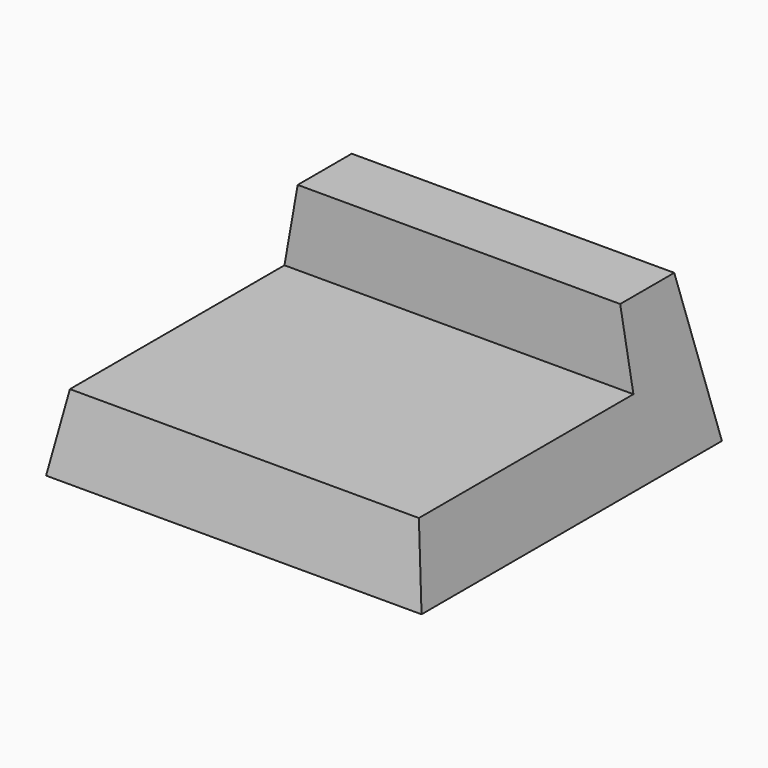
from build123d import *

# Parameters (mm, degrees)
F0_W     = 50
F0_H     = 50
F1_DEPTH = 20
F1_TAPER = 10
F4_DEPTH = 2.5
F5_W     = 42.9469207717
F5_H     = 33.9469207717
F6_DEPTH = 10


with BuildPart() as f1:
    # F0 (on Top) → F1 (new body)
    with BuildSketch(Plane.XY):
        Rectangle(F0_W, F0_H)
    extrude(amount=F1_DEPTH, taper=F1_TAPER)

    # F3 (on face) → F4 (cut)
    with BuildSketch(Plane(origin=(0, 24.2461577598, 4.2752517916), x_dir=(-1, 0, 0), z_dir=(0, 0.984807753, 0.1736481777))):
        with BuildLine():
            ThreePointArc((-62.6127916525, 12.0467824013), (-65.1076142535, 12.9570129346), (-67.6967318406, 13.5478847947))
            Line((-67.6967318406, 13.5478847947), (-67.6967318406, 1.7008224913))
            Line((-67.6967318406, 1.7008224913), (-64.9974017565, 0.6510827954))
            Line((-64.9974017565, 0.6510827954), (-64.9974017565, 10.8966148214))
            ThreePointArc((-64.9974017565, 10.8966148214), (-64.4272854823, 11.4667310956), (-63.8571692081, 10.8966148214))
            Line((-63.8571692081, 10.8966148214), (-63.8571692081, 6.5746134929))
            ThreePointArc((-63.8571692081, 6.5746134929), (-63.1556576777, 6.2062071738), (-62.36370085, 6.1807901262))
            ThreePointArc((-62.36370085, 6.1807901262), (-61.4973256009, 6.5898476466), (-60.9304969783, 7.3622720376))
            ThreePointArc((-60.9304969783, 7.3622720376), (-60.8139105128, 8.6329221267), (-60.9304969783, 9.9035722157))
            ThreePointArc((-60.9304969783, 9.9035722157), (-61.4992901353, 11.1889594143), (-62.6127916525, 12.0467824013))
        make_face()
        with BuildLine():
            Line((-59.852306272, 4.1264343026), (-64.3468709521, 2.5074238792))
            Line((-64.3468709521, 2.5074238792), (-64.3468709521, 0.8903192669))
            Line((-64.3468709521, 0.8903192669), (-59.1967386775, 2.745475089))
            ThreePointArc((-59.1967386775, 2.745475089), (-58.3600263338, 3.0909475212), (-57.5693056666, 3.5316283287))
            ThreePointArc((-57.5693056666, 3.5316283287), (-57.2106825124, 3.8266438133), (-57.1279449174, 4.2835893169))
            ThreePointArc((-57.1279449174, 4.2835893169), (-57.2731405563, 4.626683197), (-57.5693056666, 4.8526951689))
            ThreePointArc((-57.5693056666, 4.8526951689), (-59.1391575222, 5.4515460975), (-60.8064195051, 5.6596200345))
            ThreePointArc((-60.8064195051, 5.6596200345), (-62.3430133295, 5.6105588901), (-63.8571692081, 5.3443643137))
            Line((-63.8571692081, 5.3443643137), (-64.3733816954, 5.1584167399))
            Line((-64.3733816954, 5.1584167399), (-64.3733816954, 3.567821243))
            Line((-64.3733816954, 3.567821243), (-61.5377031577, 4.5892756967))
            ThreePointArc((-61.5377031577, 4.5892756967), (-61.4484140803, 4.623308608), (-61.3579327635, 4.6540317215))
            ThreePointArc((-61.3579327635, 4.6540317215), (-60.7215197269, 4.7724043893), (-60.0756078839, 4.7296079809))
            ThreePointArc((-60.0756078839, 4.7296079809), (-59.8276638338, 4.6512158498), (-59.6342471347, 4.4774011246))
            ThreePointArc((-59.6342471347, 4.4774011246), (-59.607836679, 4.389638385), (-59.6342471347, 4.3018756454))
            ThreePointArc((-59.6342471347, 4.3018756454), (-59.7293419591, 4.1968352348), (-59.852306272, 4.1264343026))
        make_face()
        with BuildLine():
            Line((-61.5377031577, 4.5892756967), (-61.3579327635, 4.6540317215))
            ThreePointArc((-61.3579327635, 4.6540317215), (-61.4484140803, 4.623308608), (-61.5377031577, 4.5892756967))
        make_face()
        with BuildLine():
            Line((-71.3693953118, 3.7232309117), (-68.2338687675, 4.8526951689))
            Line((-68.2338687675, 4.8526951689), (-68.2338687675, 6.3986412263))
            Line((-68.2338687675, 6.3986412263), (-72.8589746057, 4.7326078963))
            ThreePointArc((-72.8589746057, 4.7326078963), (-73.3660543121, 4.4190102256), (-73.7959157464, 4.0058607672))
            ThreePointArc((-73.7959157464, 4.0058607672), (-73.8489158308, 3.7221286407), (-73.7959157464, 3.4383965142))
            ThreePointArc((-73.7959157464, 3.4383965142), (-73.5719055484, 3.0819711924), (-73.2075114709, 2.8711714412))
            ThreePointArc((-73.2075114709, 2.8711714412), (-72.698935386, 2.6276316569), (-72.151396822, 2.4928622925))
            ThreePointArc((-72.151396822, 2.4928622925), (-71.0199458053, 2.2564276603), (-69.8657767964, 2.1933670766))
            ThreePointArc((-69.8657767964, 2.1933670766), (-69.0466795364, 2.2155081429), (-68.2338687675, 2.3191865022))
            Line((-68.2338687675, 2.3191865022), (-68.2338687675, 3.7681726435))
            ThreePointArc((-68.2338687675, 3.7681726435), (-68.7127832674, 3.5843780991), (-69.2045442964, 3.4383965142))
            ThreePointArc((-69.2045442964, 3.4383965142), (-70.2705361783, 3.1526989385), (-71.3693953118, 3.2550239211))
            ThreePointArc((-71.3693953118, 3.2550239211), (-71.4727799338, 3.4891274164), (-71.3693953118, 3.7232309117))
        make_face()
        with BuildLine():
            Line((-8.8550038247, 8.9253647507), (-18.3714963496, 8.9253647507))
            Line((-18.3714963496, 8.9253647507), (-18.3714963496, 8.0944637033))
            Line((-18.3714963496, 8.0944637033), (-9.6104234449, 8.0944637033))
            ThreePointArc((-9.6104234449, 8.0944637033), (-8.2918347743, 6.7758750328), (-9.6104234449, 5.4572863622))
            Line((-9.6104234449, 5.4572863622), (-16.3685619547, 5.4572863622))
            ThreePointArc((-16.3685619547, 5.4572863622), (-17.7848504476, 4.8706404602), (-18.3714963496, 3.4543519673))
            Line((-18.3714963496, 3.4543519673), (-18.3714963496, 0.8903192669))
            Line((-18.3714963496, 0.8903192669), (-16.6691035906, 0.8903192669))
            Line((-16.6691035906, 0.8903192669), (-16.6691035906, 3.2509914089))
            ThreePointArc((-16.6691035906, 3.2509914089), (-16.3194164791, 4.0952107761), (-15.475197112, 4.4448978876))
            Line((-15.475197112, 4.4448978876), (-8.8550038247, 4.4448978876))
            ThreePointArc((-8.8550038247, 4.4448978876), (-6.6147703931, 6.6851313191), (-8.8550038247, 8.9253647507))
        make_face()
        with BuildLine():
            Line((6.6308597895, 8.0305831634), (6.6308597895, 8.8359827707))
            Line((6.6308597895, 8.8359827707), (1.2028706223, 8.8359827707))
            ThreePointArc((1.2028706223, 8.8359827707), (-0.2622622882, 8.2291048484), (-0.8691402105, 6.7639719379))
            Line((-0.8691402105, 6.7639719379), (-0.8691402105, 2.7997734057))
            ThreePointArc((-0.8691402105, 2.7997734057), (-1.1781523708, 2.0537520573), (-1.9241737192, 1.744739897))
            Line((-1.9241737192, 1.744739897), (-6.9461943019, 1.744739897))
            Line((-6.9461943019, 1.744739897), (-6.9461943019, 0.9224587447))
            Line((-6.9461943019, 0.9224587447), (-1.1303118512, 0.9224587447))
            ThreePointArc((-1.1303118512, 0.9224587447), (-0.9994251278, 0.9268988758), (-0.8691402105, 0.9401988537))
            ThreePointArc((-0.8691402105, 0.9401988537), (0.324782393, 1.5838337022), (0.8010555712, 2.8538261671))
            Line((0.8010555712, 2.8538261671), (0.8010555712, 6.7639719379))
            ThreePointArc((0.8010555712, 6.7639719379), (1.17203741, 7.6596013245), (2.0676667967, 8.0305831634))
            Line((2.0676667967, 8.0305831634), (6.6308597895, 8.0305831634))
        make_face()
        with BuildLine():
            Line((-0.8691402105, 0.9224587447), (-0.8691402105, 0.9401988537))
            ThreePointArc((-0.8691402105, 0.9401988537), (-0.9994251278, 0.9268988758), (-1.1303118512, 0.9224587447))
            Line((-1.1303118512, 0.9224587447), (-0.8691402105, 0.9224587447))
        make_face()
        with BuildLine():
            Line((16.1497702226, 8.7293623708), (6.2916715828, 2.7671895852))
            ThreePointArc((6.2916715828, 2.7671895852), (6.0312638327, 2.1103408421), (6.5940157184, 1.6830554777))
            Line((6.5940157184, 1.6830554777), (15.6298977944, 1.6830554777))
            Line((15.6298977944, 1.6830554777), (15.6298977944, 0.8854835551))
            Line((15.6298977944, 0.8854835551), (17.3096715009, 0.8854835551))
            Line((17.3096715009, 0.8854835551), (17.3096715009, 1.6830554777))
            Line((17.3096715009, 1.6830554777), (18.9957390394, 1.6830554777))
            Line((18.9957390394, 1.6830554777), (18.9957390394, 2.5790360808))
            Line((18.9957390394, 2.5790360808), (17.3096715009, 2.5790360808))
            Line((17.3096715009, 2.5790360808), (17.3096715009, 8.4309516424))
            ThreePointArc((17.3096715009, 8.4309516424), (16.7924307072, 8.8239057157), (16.1497702226, 8.7293623708))
        make_face()
        with BuildLine():
            ThreePointArc((15.6298977944, 2.7664388472), (15.5851471152, 2.650295301), (15.4830977637, 2.5790360808))
            Line((15.4830977637, 2.5790360808), (8.2873353154, 2.5790360808))
            ThreePointArc((8.2873353154, 2.5790360808), (8.2396752723, 2.5724973144), (8.1920152292, 2.5790360808))
            ThreePointArc((8.1920152292, 2.5790360808), (8.0660077379, 2.7154691755), (8.1312813761, 2.8893404766))
            ThreePointArc((8.1312813761, 2.8893404766), (8.1482094403, 2.900951867), (8.1663682644, 2.9105247899))
            Line((8.1663682644, 2.9105247899), (15.2921648042, 7.212847216))
            ThreePointArc((15.2921648042, 7.212847216), (15.4818399907, 7.2366014749), (15.6298977944, 7.1156889945))
            Line((15.6298977944, 7.1156889945), (15.6298977944, 2.7966582224))
            ThreePointArc((15.6298977944, 2.7966582224), (15.6304347873, 2.7815485348), (15.6298977944, 2.7664388472))
        make_face(mode=Mode.SUBTRACT)
    extrude(amount=-F4_DEPTH, mode=Mode.SUBTRACT)

    # F5 (on face) → F6 (cut)
    with BuildSketch(Plane.XY.offset(20)):
        Polygon((-21.4734603858, 12.4734603858), (-40, 12.4734603858), (-40, -37.5265396142), (40, -37.5265396142), (40, 12.4734603858), (21.4734603858, 12.4734603858), (21.4734603858, -21.4734603858), (-21.4734603858, -21.4734603858), align=None)
        with Locations((0, -4.5)):
            Rectangle(F5_W, F5_H)
    extrude(amount=-F6_DEPTH, mode=Mode.SUBTRACT)


solid = f1.part
